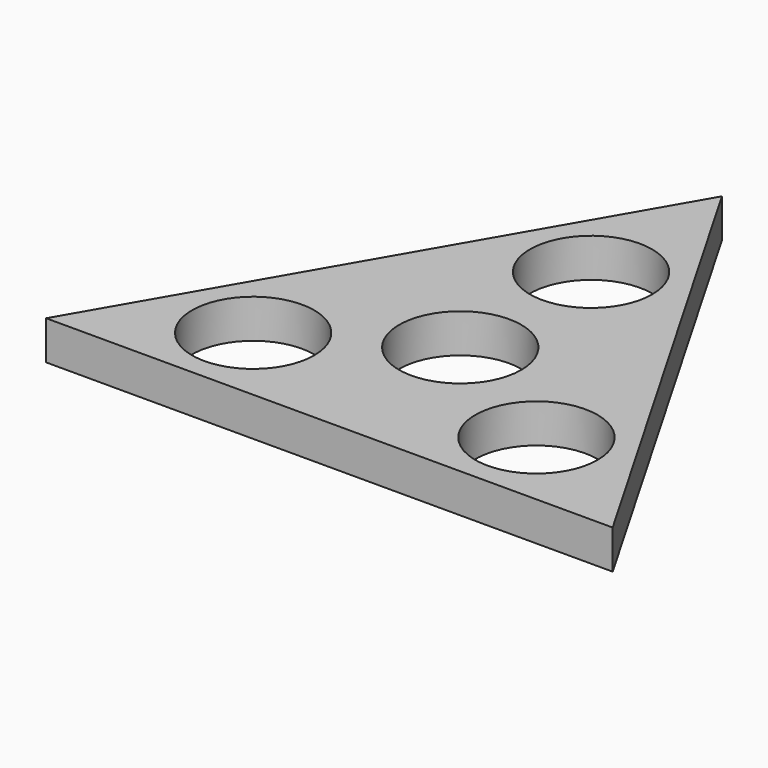
from build123d import *

# Parameters (mm, degrees)
F0_R     = 11
F1_DEPTH = 7


with BuildPart() as f1:
    # F0 (on Top) → F1 (new body)
    with BuildSketch(Plane.XY):
        Polygon((-51.017296, -29.45485), (51.017296, -29.45485), (0, 58.9097), align=None)
        with Locations((-25.508648, -14.727425)):
            Circle(F0_R, mode=Mode.SUBTRACT)
        with Locations((25.508648, -14.727425)):
            Circle(F0_R, mode=Mode.SUBTRACT)
        Circle(F0_R, mode=Mode.SUBTRACT)
        with Locations((0, 29.45485)):
            Circle(F0_R, mode=Mode.SUBTRACT)
    extrude(amount=F1_DEPTH)


solid = f1.part
